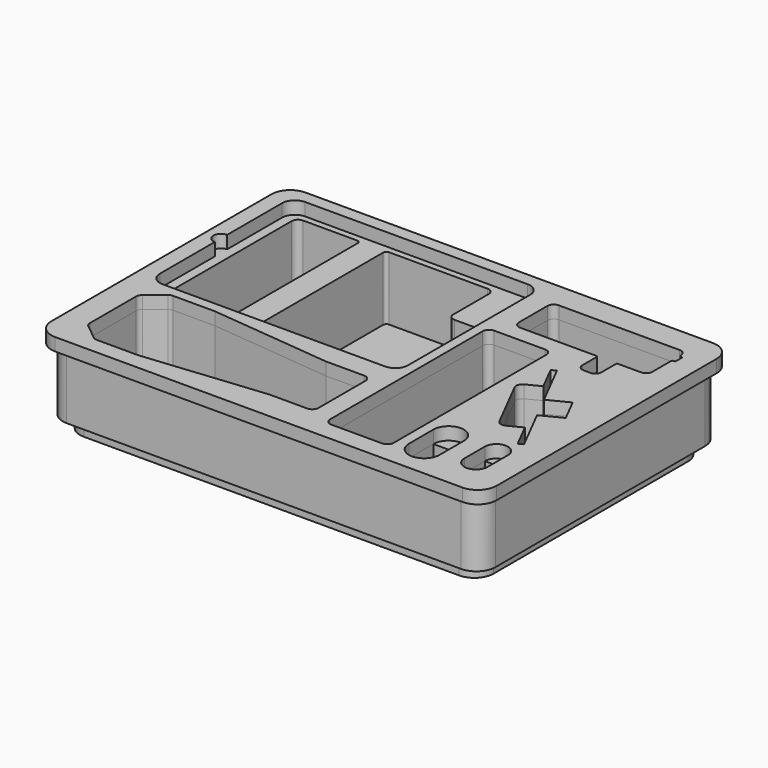
from build123d import *

# Parameters (mm, degrees)
F0_W     = 30.48
F0_H     = 30.48
F1_DEPTH = 63.5
F3_DEPTH = 12.7
F5_DEPTH = 12.7


with BuildPart() as f1:
    # F0 (on Top) → F1 (new body)
    with BuildSketch(Plane.XY):
        with BuildLine():
            Line((196.85, 149.86), (-196.85, 149.86))
            ThreePointArc((-196.85, 149.86), (-210.320384, 144.280384), (-215.9, 130.81))
            Line((-215.9, 130.81), (-215.9, -130.81))
            ThreePointArc((-215.9, -130.81), (-210.320384, -144.280384), (-196.85, -149.86))
            Line((-196.85, -149.86), (196.85, -149.86))
            ThreePointArc((196.85, -149.86), (210.320384, -144.280384), (215.9, -130.81))
            Line((215.9, -130.81), (215.9, 130.81))
            ThreePointArc((215.9, 130.81), (210.320384, 144.280384), (196.85, 149.86))
        make_face()
        with BuildLine():
            ThreePointArc((-194.486228, -125.731268), (-196.228658, -123.527866), (-196.85, -120.788345))
            Line((-196.85, -120.788345), (-196.85, -63.361655))
            ThreePointArc((-196.85, -63.361655), (-196.228658, -60.622134), (-194.486228, -58.418732))
            Line((-194.486228, -58.418732), (-178.909776, -45.857077))
            ThreePointArc((-178.909776, -45.857077), (-177.037187, -44.812093), (-174.923548, -44.45))
            Line((-174.923548, -44.45), (-133.35, -44.45))
            Line((-133.35, -44.45), (-12.7, -56.515))
            Line((-12.7, -56.515), (25.4, -56.515))
            ThreePointArc((25.4, -56.515), (29.890128, -58.374872), (31.75, -62.865))
            Line((31.75, -62.865), (31.75, -121.285))
            ThreePointArc((31.75, -121.285), (29.890128, -125.775128), (25.4, -127.635))
            Line((25.4, -127.635), (-12.7, -127.635))
            Line((-12.7, -127.635), (-133.35, -139.7))
            Line((-133.35, -139.7), (-174.923548, -139.7))
            ThreePointArc((-174.923548, -139.7), (-177.037187, -139.337907), (-178.909776, -138.292923))
            Line((-178.909776, -138.292923), (-194.486228, -125.731268))
        make_face(mode=Mode.SUBTRACT)
        with Locations((139.7, -109.22)):
            Rectangle(F0_W, F0_H, mode=Mode.SUBTRACT)
        with BuildLine():
            Line((173.736, -106.68), (173.736, -91.44))
            Line((173.736, -91.44), (196.85, -91.44))
            Line((196.85, -91.44), (196.85, -106.68))
            ThreePointArc((196.85, -106.68), (185.293, -118.237), (173.736, -106.68))
        make_face(mode=Mode.SUBTRACT)
        with BuildLine():
            ThreePointArc((114.3, -130.81), (112.440128, -135.300128), (107.95, -137.16))
            Line((107.95, -137.16), (57.15, -137.16))
            ThreePointArc((57.15, -137.16), (52.659872, -135.300128), (50.8, -130.81))
            Line((50.8, -130.81), (50.8, 59.69))
            ThreePointArc((50.8, 59.69), (52.659872, 64.180128), (57.15, 66.04))
            Line((57.15, 66.04), (107.95, 66.04))
            ThreePointArc((107.95, 66.04), (112.440128, 64.180128), (114.3, 59.69))
            Line((114.3, 59.69), (114.3, -130.81))
        make_face(mode=Mode.SUBTRACT)
        with BuildLine():
            Line((155.867918, -50.834227), (142.606856, -24.807927))
            Line((142.606856, -24.807927), (129.345794, 1.218374))
            ThreePointArc((129.345794, 1.218374), (128.964476, 6.063472), (132.120845, 9.759105))
            Line((132.120845, 9.759105), (145.699785, 16.67792))
            Line((145.699785, 16.67792), (133.01529, 41.572643))
            Line((133.01529, 41.572643), (137.541603, 43.878914))
            Line((137.541603, 43.878914), (160.316037, -0.818428))
            Line((160.316037, -0.818428), (180.684446, 9.559795))
            Line((180.684446, 9.559795), (186.738409, -2.321777))
            Line((186.738409, -2.321777), (192.792372, -14.203349))
            Line((192.792372, -14.203349), (172.423963, -24.581572))
            Line((172.423963, -24.581572), (195.198397, -69.278914))
            Line((195.198397, -69.278914), (190.672084, -71.585186))
            Line((190.672084, -71.585186), (177.987589, -46.690464))
            Line((177.987589, -46.690464), (164.40865, -53.609279))
            ThreePointArc((164.40865, -53.609279), (159.563552, -53.990596), (155.867918, -50.834227))
        make_face(mode=Mode.SUBTRACT)
        with BuildLine():
            ThreePointArc((-190.5, -21.59), (-194.990128, -19.730128), (-196.85, -15.24))
            Line((-196.85, -15.24), (-196.85, 130.81))
            ThreePointArc((-196.85, 130.81), (-194.990128, 135.300128), (-190.5, 137.16))
            Line((-190.5, 137.16), (-136.525, 137.16))
            ThreePointArc((-136.525, 137.16), (-134.279936, 136.230064), (-133.35, 133.985))
            Line((-133.35, 133.985), (-133.35, -18.415))
            ThreePointArc((-133.35, -18.415), (-134.279936, -20.660064), (-136.525, -21.59))
            Line((-136.525, -21.59), (-190.5, -21.59))
        make_face(mode=Mode.SUBTRACT)
        with BuildLine():
            Line((31.75, 26.035), (31.75, -21.59))
            ThreePointArc((31.75, -21.59), (29.890128, -26.080128), (25.4, -27.94))
            Line((25.4, -27.94), (-15.875, -27.94))
            ThreePointArc((-15.875, -27.94), (-18.120064, -27.010064), (-19.05, -24.765))
            ThreePointArc((-19.05, -24.765), (-19.979936, -22.519936), (-22.225, -21.59))
            Line((-22.225, -21.59), (-104.775, -21.59))
            ThreePointArc((-104.775, -21.59), (-107.020064, -20.660064), (-107.95, -18.415))
            Line((-107.95, -18.415), (-107.95, 133.985))
            ThreePointArc((-107.95, 133.985), (-107.020064, 136.230064), (-104.775, 137.16))
            Line((-104.775, 137.16), (-6.35, 137.16))
            ThreePointArc((-6.35, 137.16), (-1.859872, 135.300128), (0, 130.81))
            Line((0, 130.81), (0, 86.36))
            ThreePointArc((0, 86.36), (1.859872, 81.869872), (6.35, 80.01))
            Line((6.35, 80.01), (34.925, 80.01))
            ThreePointArc((34.925, 80.01), (37.170064, 79.080064), (38.1, 76.835))
            Line((38.1, 76.835), (38.1, 32.385))
            ThreePointArc((38.1, 32.385), (37.170064, 30.139936), (34.925, 29.21))
            ThreePointArc((34.925, 29.21), (32.679936, 28.280064), (31.75, 26.035))
        make_face(mode=Mode.SUBTRACT)
        with BuildLine():
            ThreePointArc((69.85, 82.55), (65.359872, 84.409872), (63.5, 88.9))
            Line((63.5, 88.9), (63.5, 124.46))
            ThreePointArc((63.5, 124.46), (65.359872, 128.950128), (69.85, 130.81))
            Line((69.85, 130.81), (190.5, 130.81))
            ThreePointArc((190.5, 130.81), (194.990128, 128.950128), (196.85, 124.46))
            Line((196.85, 124.46), (196.85, 124.1298))
            ThreePointArc((196.85, 124.1298), (197.226412, 123.239995), (198.119936, 122.8725))
            Line((198.119936, 122.8725), (198.755, 122.8725))
            ThreePointArc((198.755, 122.8725), (199.653026, 122.500526), (200.025, 121.6025))
            Line((200.025, 121.6025), (200.025, 114.6175))
            ThreePointArc((200.025, 114.6175), (199.653026, 113.719474), (198.755, 113.3475))
            Line((198.755, 113.3475), (198.12, 113.3475))
            ThreePointArc((198.12, 113.3475), (197.221974, 112.975526), (196.85, 112.0775))
            Line((196.85, 112.0775), (196.85, 88.9))
            ThreePointArc((196.85, 88.9), (194.990128, 84.409872), (190.5, 82.55))
            Line((190.5, 82.55), (167.64, 82.55))
            ThreePointArc((167.64, 82.55), (166.741974, 82.178026), (166.37, 81.28))
            Line((166.37, 81.28), (166.37, 63.5))
            ThreePointArc((166.37, 63.5), (164.510128, 59.009872), (160.02, 57.15))
            Line((160.02, 57.15), (153.67, 57.15))
            ThreePointArc((153.67, 57.15), (149.179872, 59.009872), (147.32, 63.5))
            Line((147.32, 63.5), (147.32, 81.28))
            ThreePointArc((147.32, 81.28), (146.948026, 82.178026), (146.05, 82.55))
            Line((146.05, 82.55), (69.85, 82.55))
        make_face(mode=Mode.SUBTRACT)
    extrude(amount=F1_DEPTH)


with BuildPart() as f3:
    # F2 (on Top) → F3 (new body)
    with BuildSketch(Plane.XY):
        with BuildLine():
            Line((187.325, 140.335), (-187.325, 140.335))
            ThreePointArc((-187.325, 140.335), (-200.795384, 134.755384), (-206.375, 121.285))
            Line((-206.375, 121.285), (-206.375, -121.285))
            ThreePointArc((-206.375, -121.285), (-200.795384, -134.755384), (-187.325, -140.335))
            Line((-187.325, -140.335), (187.325, -140.335))
            ThreePointArc((187.325, -140.335), (200.795384, -134.755384), (206.375, -121.285))
            Line((206.375, -121.285), (206.375, 121.285))
            ThreePointArc((206.375, 121.285), (200.795384, 134.755384), (187.325, 140.335))
        make_face()
        with BuildLine():
            Line((-182.968114, -65.445176), (-173.554483, -57.853539))
            ThreePointArc((-173.554483, -57.853539), (-172.618189, -57.331047), (-171.561369, -57.15))
            Line((-171.561369, -57.15), (-134.141775, -57.15))
            ThreePointArc((-134.141775, -57.15), (-133.983617, -57.153942), (-133.825851, -57.165757))
            Line((-133.825851, -57.165757), (-13.49099, -69.199243))
            ThreePointArc((-13.49099, -69.199243), (-13.333224, -69.211058), (-13.175065, -69.215))
            Line((-13.175065, -69.215), (15.875, -69.215))
            ThreePointArc((15.875, -69.215), (18.120064, -70.144936), (19.05, -72.39))
            Line((19.05, -72.39), (19.05, -79.375))
            ThreePointArc((19.05, -79.375), (19.979936, -81.620064), (22.225, -82.55))
            Line((22.225, -82.55), (76.2, -82.55))
            ThreePointArc((76.2, -82.55), (85.725, -92.075), (76.2, -101.6))
            Line((76.2, -101.6), (22.225, -101.6))
            ThreePointArc((22.225, -101.6), (19.979936, -102.529936), (19.05, -104.775))
            Line((19.05, -104.775), (19.05, -111.76))
            ThreePointArc((19.05, -111.76), (18.120064, -114.005064), (15.875, -114.935))
            Line((15.875, -114.935), (-13.175065, -114.935))
            ThreePointArc((-13.175065, -114.935), (-13.333224, -114.938942), (-13.49099, -114.950757))
            Line((-13.49099, -114.950757), (-133.825851, -126.984243))
            ThreePointArc((-133.825851, -126.984243), (-133.983617, -126.996058), (-134.141775, -127))
            Line((-134.141775, -127), (-171.561369, -127))
            ThreePointArc((-171.561369, -127), (-172.618189, -126.818953), (-173.554483, -126.296461))
            Line((-173.554483, -126.296461), (-182.968114, -118.704824))
            ThreePointArc((-182.968114, -118.704824), (-183.839329, -117.603123), (-184.15, -116.233362))
            Line((-184.15, -116.233362), (-184.15, -67.916638))
            ThreePointArc((-184.15, -67.916638), (-183.839329, -66.546877), (-182.968114, -65.445176))
        make_face(mode=Mode.SUBTRACT)
        with BuildLine():
            Line((-158.75, 41.91), (-158.75, 54.61))
            Line((-158.75, 54.61), (-158.75, 67.31))
            ThreePointArc((-158.75, 67.31), (-157.820064, 69.555064), (-155.575, 70.485))
            Line((-155.575, 70.485), (-85.725, 70.485))
            ThreePointArc((-85.725, 70.485), (-83.479936, 69.555064), (-82.55, 67.31))
            Line((-82.55, 67.31), (-82.55, 54.61))
            Line((-82.55, 54.61), (-82.55, 41.91))
            ThreePointArc((-82.55, 41.91), (-83.479936, 39.664936), (-85.725, 38.735))
            Line((-85.725, 38.735), (-155.575, 38.735))
            ThreePointArc((-155.575, 38.735), (-157.820064, 39.664936), (-158.75, 41.91))
        make_face(mode=Mode.SUBTRACT)
        with BuildLine():
            ThreePointArc((-8.125321, 54.61), (-6.265449, 59.100128), (-1.775321, 60.96))
            Line((-1.775321, 60.96), (87.124679, 60.96))
            ThreePointArc((87.124679, 60.96), (91.614807, 59.100128), (93.474679, 54.61))
            Line((93.474679, 54.61), (93.474679, 35.56))
            ThreePointArc((93.474679, 35.56), (91.614807, 31.069872), (87.124679, 29.21))
            Line((87.124679, 29.21), (-1.775321, 29.21))
            ThreePointArc((-1.775321, 29.21), (-6.265449, 31.069872), (-8.125321, 35.56))
            Line((-8.125321, 35.56), (-8.125321, 54.61))
        make_face(mode=Mode.SUBTRACT)
    extrude(amount=-F3_DEPTH)


with BuildPart() as f5:
    # F4 (on face) → F5 (new body)
    with BuildSketch(Plane.XY.offset(63.5)):
        with BuildLine():
            Line((203.2, 156.21), (-203.2, 156.21))
            ThreePointArc((-203.2, 156.21), (-216.670384, 150.630384), (-222.25, 137.16))
            Line((-222.25, 137.16), (-222.25, -137.16))
            ThreePointArc((-222.25, -137.16), (-216.670384, -150.630384), (-203.2, -156.21))
            Line((-203.2, -156.21), (203.2, -156.21))
            ThreePointArc((203.2, -156.21), (216.670384, -150.630384), (222.25, -137.16))
            Line((222.25, -137.16), (222.25, 137.16))
            ThreePointArc((222.25, 137.16), (216.670384, 150.630384), (203.2, 156.21))
        make_face()
        with BuildLine():
            ThreePointArc((-194.486228, -125.731268), (-196.228658, -123.527866), (-196.85, -120.788345))
            Line((-196.85, -120.788345), (-196.85, -63.361655))
            ThreePointArc((-196.85, -63.361655), (-196.228658, -60.622134), (-194.486228, -58.418732))
            Line((-194.486228, -58.418732), (-178.909776, -45.857077))
            ThreePointArc((-178.909776, -45.857077), (-177.037187, -44.812093), (-174.923548, -44.45))
            Line((-174.923548, -44.45), (-133.35, -44.45))
            Line((-133.35, -44.45), (-12.7, -56.515))
            Line((-12.7, -56.515), (25.4, -56.515))
            ThreePointArc((25.4, -56.515), (29.890128, -58.374872), (31.75, -62.865))
            Line((31.75, -62.865), (31.75, -121.285))
            ThreePointArc((31.75, -121.285), (29.890128, -125.775128), (25.4, -127.635))
            Line((25.4, -127.635), (-12.7, -127.635))
            Line((-12.7, -127.635), (-133.35, -139.7))
            Line((-133.35, -139.7), (-174.923548, -139.7))
            ThreePointArc((-174.923548, -139.7), (-177.037187, -139.337907), (-178.909776, -138.292923))
            Line((-178.909776, -138.292923), (-194.486228, -125.731268))
        make_face(mode=Mode.SUBTRACT)
        with BuildLine():
            Line((124.46, -124.46), (124.46, -93.98))
            ThreePointArc((124.46, -93.98), (139.7, -78.74), (154.94, -93.98))
            Line((154.94, -93.98), (154.94, -124.46))
            ThreePointArc((154.94, -124.46), (139.7, -139.7), (124.46, -124.46))
        make_face(mode=Mode.SUBTRACT)
        with BuildLine():
            Line((173.736, -106.68), (173.736, -91.44))
            ThreePointArc((173.736, -91.44), (185.293, -79.883), (196.85, -91.44))
            Line((196.85, -91.44), (196.85, -106.68))
            Line((196.85, -106.68), (196.85, -116.84))
            ThreePointArc((196.85, -116.84), (185.293, -128.397), (173.736, -116.84))
            Line((173.736, -116.84), (173.736, -106.68))
        make_face(mode=Mode.SUBTRACT)
        with BuildLine():
            ThreePointArc((114.3, -130.81), (112.440128, -135.300128), (107.95, -137.16))
            Line((107.95, -137.16), (57.15, -137.16))
            ThreePointArc((57.15, -137.16), (52.659872, -135.300128), (50.8, -130.81))
            Line((50.8, -130.81), (50.8, 59.69))
            ThreePointArc((50.8, 59.69), (52.659872, 64.180128), (57.15, 66.04))
            Line((57.15, 66.04), (107.95, 66.04))
            ThreePointArc((107.95, 66.04), (112.440128, 64.180128), (114.3, 59.69))
            Line((114.3, 59.69), (114.3, -130.81))
        make_face(mode=Mode.SUBTRACT)
        with BuildLine():
            Line((155.867918, -50.834227), (142.606856, -24.807927))
            Line((142.606856, -24.807927), (129.345794, 1.218374))
            ThreePointArc((129.345794, 1.218374), (128.964476, 6.063472), (132.120845, 9.759105))
            Line((132.120845, 9.759105), (145.699785, 16.67792))
            Line((145.699785, 16.67792), (133.01529, 41.572643))
            Line((133.01529, 41.572643), (137.541603, 43.878914))
            Line((137.541603, 43.878914), (160.316037, -0.818428))
            Line((160.316037, -0.818428), (180.684446, 9.559795))
            Line((180.684446, 9.559795), (186.738409, -2.321777))
            Line((186.738409, -2.321777), (192.792372, -14.203349))
            Line((192.792372, -14.203349), (172.423963, -24.581572))
            Line((172.423963, -24.581572), (195.198397, -69.278914))
            Line((195.198397, -69.278914), (190.672084, -71.585186))
            Line((190.672084, -71.585186), (177.987589, -46.690464))
            Line((177.987589, -46.690464), (164.40865, -53.609279))
            ThreePointArc((164.40865, -53.609279), (159.563552, -53.990596), (155.867918, -50.834227))
        make_face(mode=Mode.SUBTRACT)
        with BuildLine():
            ThreePointArc((-206.375, 130.81), (-202.655256, 139.790256), (-193.675, 143.51))
            Line((-193.675, 143.51), (28.575, 143.51))
            ThreePointArc((28.575, 143.51), (37.555256, 139.790256), (41.275, 130.81))
            Line((41.275, 130.81), (41.275, -21.59))
            ThreePointArc((41.275, -21.59), (37.555256, -30.570256), (28.575, -34.29))
            Line((28.575, -34.29), (12.7, -34.29))
            Line((12.7, -34.29), (0, -34.29))
            Line((0, -34.29), (-193.675, -34.29))
            ThreePointArc((-193.675, -34.29), (-202.655256, -30.570256), (-206.375, -21.59))
            Line((-206.375, -21.59), (-206.375, 46.99))
            ThreePointArc((-206.375, 46.99), (-213.995, 54.61), (-206.375, 62.23))
            Line((-206.375, 62.23), (-206.375, 99.06))
            Line((-206.375, 99.06), (-206.375, 111.76))
            Line((-206.375, 111.76), (-206.375, 130.81))
        make_face(mode=Mode.SUBTRACT)
        with BuildLine():
            ThreePointArc((69.85, 82.55), (65.359872, 84.409872), (63.5, 88.9))
            Line((63.5, 88.9), (63.5, 124.46))
            ThreePointArc((63.5, 124.46), (65.359872, 128.950128), (69.85, 130.81))
            Line((69.85, 130.81), (190.5, 130.81))
            ThreePointArc((190.5, 130.81), (194.990128, 128.950128), (196.85, 124.46))
            Line((196.85, 124.46), (196.85, 124.1298))
            ThreePointArc((196.85, 124.1298), (197.226412, 123.239995), (198.119936, 122.8725))
            Line((198.119936, 122.8725), (198.755, 122.8725))
            ThreePointArc((198.755, 122.8725), (199.653026, 122.500526), (200.025, 121.6025))
            Line((200.025, 121.6025), (200.025, 114.6175))
            ThreePointArc((200.025, 114.6175), (199.653026, 113.719474), (198.755, 113.3475))
            Line((198.755, 113.3475), (198.12, 113.3475))
            ThreePointArc((198.12, 113.3475), (197.221974, 112.975526), (196.85, 112.0775))
            Line((196.85, 112.0775), (196.85, 88.9))
            ThreePointArc((196.85, 88.9), (194.990128, 84.409872), (190.5, 82.55))
            Line((190.5, 82.55), (167.64, 82.55))
            ThreePointArc((167.64, 82.55), (166.741974, 82.178026), (166.37, 81.28))
            Line((166.37, 81.28), (166.37, 63.5))
            ThreePointArc((166.37, 63.5), (164.510128, 59.009872), (160.02, 57.15))
            Line((160.02, 57.15), (153.67, 57.15))
            ThreePointArc((153.67, 57.15), (149.179872, 59.009872), (147.32, 63.5))
            Line((147.32, 63.5), (147.32, 81.28))
            ThreePointArc((147.32, 81.28), (146.948026, 82.178026), (146.05, 82.55))
            Line((146.05, 82.55), (69.85, 82.55))
        make_face(mode=Mode.SUBTRACT)
    extrude(amount=F5_DEPTH)


solid = Compound([f1.part, f3.part, f5.part])
